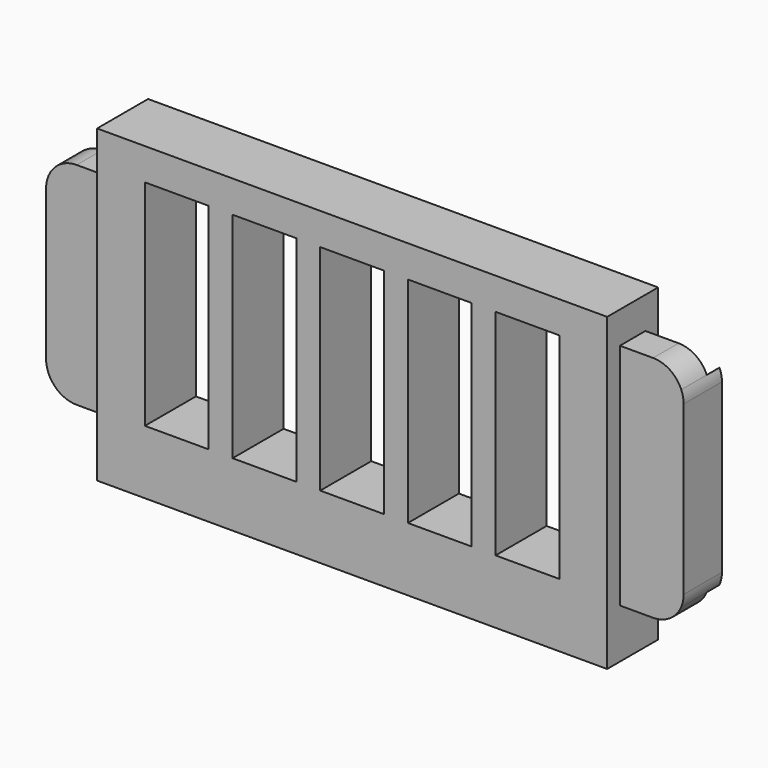
from build123d import *

# Parameters (mm, degrees)
F0_W     = 8
F0_H     = 26.900017
F0_H_2   = 26.905365
F1_DEPTH = 6
F2_DEPTH = 2
F3_DEPTH = 8
F4_W     = 23
F4_H     = 4
F4_W_2   = 22.5
F5_DEPTH = 5


with BuildPart() as f1:
    # F0 (on Front) → F1 (new body)
    with BuildSketch(Plane.XZ):
        with BuildLine():
            Line((-85.422808, 9.222019), (-85.422808, 31.025267))
            ThreePointArc((-85.422808, 31.025267), (-85.64706, 30.296735), (-85.722808, 29.538243))
            Line((-85.722808, 29.538243), (-85.722808, 10.709043))
            ThreePointArc((-85.722808, 10.709043), (-85.64706, 9.950551), (-85.422808, 9.222019))
        make_face()
        with BuildLine():
            ThreePointArc((-5.722808, 31.73826), (-5.798556, 32.496752), (-6.022808, 33.225284))
            Line((-6.022808, 33.225284), (-6.022808, 9.222019))
            ThreePointArc((-6.022808, 9.222019), (-5.798556, 9.950551), (-5.722808, 10.709043))
            Line((-5.722808, 10.709043), (-5.722808, 31.73826))
        make_face()
        with BuildLine():
            Line((-9.558208, 35.57366), (-13.722808, 35.57366))
            Line((-13.722808, 35.57366), (-13.722808, 8.673643))
            Line((-13.722808, 8.673643), (-13.722808, 6.873643))
            Line((-13.722808, 6.873643), (-9.558208, 6.873643))
            ThreePointArc((-9.558208, 6.873643), (-7.436068, 7.514232), (-6.022808, 9.222019))
            Line((-6.022808, 9.222019), (-6.022808, 33.225284))
            ThreePointArc((-6.022808, 33.225284), (-7.436068, 34.93307), (-9.558208, 35.57366))
        make_face()
        Polygon((-71.722808, 39.57366), (-77.722808, 39.57366), (-77.722808, 35.57366), (-77.722808, 33.373643), (-77.722808, 15.555412), (-77.722808, 8.673643), (-77.722808, 6.873643), (-77.722808, 0.673643), (-71.722808, 0.673643), (-13.722808, 0.673643), (-13.722808, 6.873643), (-13.722808, 8.673643), (-13.722808, 35.57366), (-13.722808, 39.57366), (-21.722808, 39.57366), align=None)
        with Locations((-67.722808, 22.123651)):
            Rectangle(F0_W, F0_H, mode=Mode.SUBTRACT)
        with Locations((-56.722808, 22.123651)):
            Rectangle(F0_W, F0_H, mode=Mode.SUBTRACT)
        with Locations((-45.722808, 22.123651)):
            Rectangle(F0_W, F0_H, mode=Mode.SUBTRACT)
        with Locations((-34.722808, 22.123651)):
            Rectangle(F0_W, F0_H, mode=Mode.SUBTRACT)
        with Locations((-23.722808, 22.124238)):
            Rectangle(F0_W, F0_H_2, mode=Mode.SUBTRACT)
        with BuildLine():
            Line((-77.722808, 15.555412), (-77.722808, 33.373643))
            Line((-77.722808, 33.373643), (-81.887408, 33.373643))
            ThreePointArc((-81.887408, 33.373643), (-84.009549, 32.733053), (-85.422808, 31.025267))
            Line((-85.422808, 31.025267), (-85.422808, 9.222019))
            ThreePointArc((-85.422808, 9.222019), (-84.009549, 7.514232), (-81.887408, 6.873643))
            Line((-81.887408, 6.873643), (-77.722808, 6.873643))
            Line((-77.722808, 6.873643), (-77.722808, 8.673643))
            Line((-77.722808, 8.673643), (-77.722808, 15.555412))
        make_face()
    extrude(amount=F1_DEPTH)

    # F0 (on Front) → F2 (cut)
    with BuildSketch(Plane.XZ):
        with BuildLine():
            Line((-77.722808, 15.555412), (-77.722808, 33.373643))
            Line((-77.722808, 33.373643), (-81.887408, 33.373643))
            ThreePointArc((-81.887408, 33.373643), (-84.009549, 32.733053), (-85.422808, 31.025267))
            Line((-85.422808, 31.025267), (-85.422808, 9.222019))
            ThreePointArc((-85.422808, 9.222019), (-84.009549, 7.514232), (-81.887408, 6.873643))
            Line((-81.887408, 6.873643), (-77.722808, 6.873643))
            Line((-77.722808, 6.873643), (-77.722808, 8.673643))
            Line((-77.722808, 8.673643), (-77.722808, 15.555412))
        make_face()
        with BuildLine():
            Line((-9.558208, 35.57366), (-13.722808, 35.57366))
            Line((-13.722808, 35.57366), (-13.722808, 8.673643))
            Line((-13.722808, 8.673643), (-13.722808, 6.873643))
            Line((-13.722808, 6.873643), (-9.558208, 6.873643))
            ThreePointArc((-9.558208, 6.873643), (-7.436068, 7.514232), (-6.022808, 9.222019))
            Line((-6.022808, 9.222019), (-6.022808, 33.225284))
            ThreePointArc((-6.022808, 33.225284), (-7.436068, 34.93307), (-9.558208, 35.57366))
        make_face()
    extrude(amount=F2_DEPTH, mode=Mode.SUBTRACT)

    # F0 (on Front) → F3 (join)
    with BuildSketch(Plane.XZ):
        Polygon((-71.722808, 39.57366), (-77.722808, 39.57366), (-77.722808, 35.57366), (-77.722808, 33.373643), (-77.722808, 15.555412), (-77.722808, 8.673643), (-77.722808, 6.873643), (-77.722808, 0.673643), (-71.722808, 0.673643), (-13.722808, 0.673643), (-13.722808, 6.873643), (-13.722808, 8.673643), (-13.722808, 35.57366), (-13.722808, 39.57366), (-21.722808, 39.57366), align=None)
        with Locations((-67.722808, 22.123651)):
            Rectangle(F0_W, F0_H, mode=Mode.SUBTRACT)
        with Locations((-56.722808, 22.123651)):
            Rectangle(F0_W, F0_H, mode=Mode.SUBTRACT)
        with Locations((-45.722808, 22.123651)):
            Rectangle(F0_W, F0_H, mode=Mode.SUBTRACT)
        with Locations((-34.722808, 22.123651)):
            Rectangle(F0_W, F0_H, mode=Mode.SUBTRACT)
        with Locations((-23.722808, 22.124238)):
            Rectangle(F0_W, F0_H_2, mode=Mode.SUBTRACT)
    extrude(amount=F3_DEPTH)

    # F4 (on Top) → F5 (cut)
    with BuildSketch(Plane.XY):
        Polygon((-75.366058, -1.990048), (-75.366058, -5.990048), (-52.866058, -5.990048), (-52.866058, -3.990048), (-52.866058, -1.990048), align=None)
        Polygon((-42.866058, -1.990048), (-42.866058, -5.990048), (-19.866058, -5.990048), (-19.866058, -3.990048), (-19.866058, -1.990048), align=None)
        with Locations((23.633942, -3.990048)):
            Rectangle(F4_W, F4_H)
        with Locations((56.383942, -3.990048)):
            Rectangle(F4_W_2, F4_H)
    extrude(amount=F5_DEPTH, mode=Mode.SUBTRACT)


solid = f1.part
